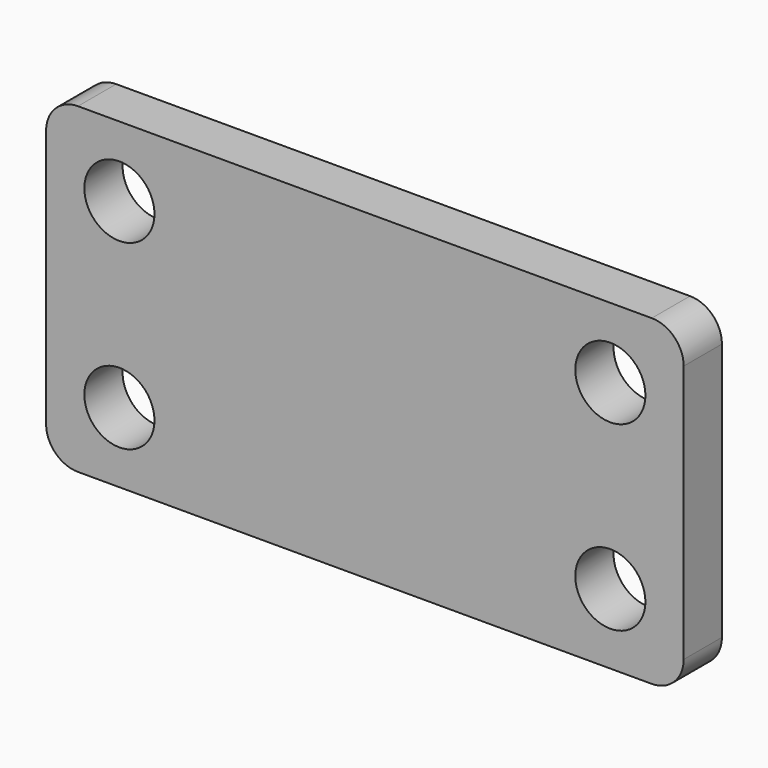
from build123d import *

# Parameters (mm, degrees)
F0_W     = 20
F0_H     = 10.1
F1_DEPTH = 1.5
F2_R     = 1.1
F3_DEPTH = 1.5
F4_R     = 1


with BuildPart() as f1:
    # F0 (on Front) → F1 (new body)
    with BuildSketch(Plane.XZ):
        with Locations((10, 5.05)):
            Rectangle(F0_W, F0_H)
    extrude(amount=F1_DEPTH)

    # F2 (on face) → F3 (cut, through all)
    with BuildSketch(Plane.XZ.offset(1.5)):
        with Locations((2.3, 7.9)):
            Circle(F2_R)
        with Locations((17.7, 7.9)):
            Circle(F2_R)
        with Locations((2.3, 2.2)):
            Circle(F2_R)
        with Locations((17.7, 2.2)):
            Circle(F2_R)
    extrude(amount=-F3_DEPTH, mode=Mode.SUBTRACT)

    # F4
    f4_edges = [f1.edges().sort_by_distance(p)[0] for p in [
        (20, -0.75, 10.1),
        (20, -0.75, 0),
        (0, -0.75, 10.1),
        (0, -0.75, 0),
    ]]
    fillet(f4_edges, radius=F4_R)


solid = f1.part
